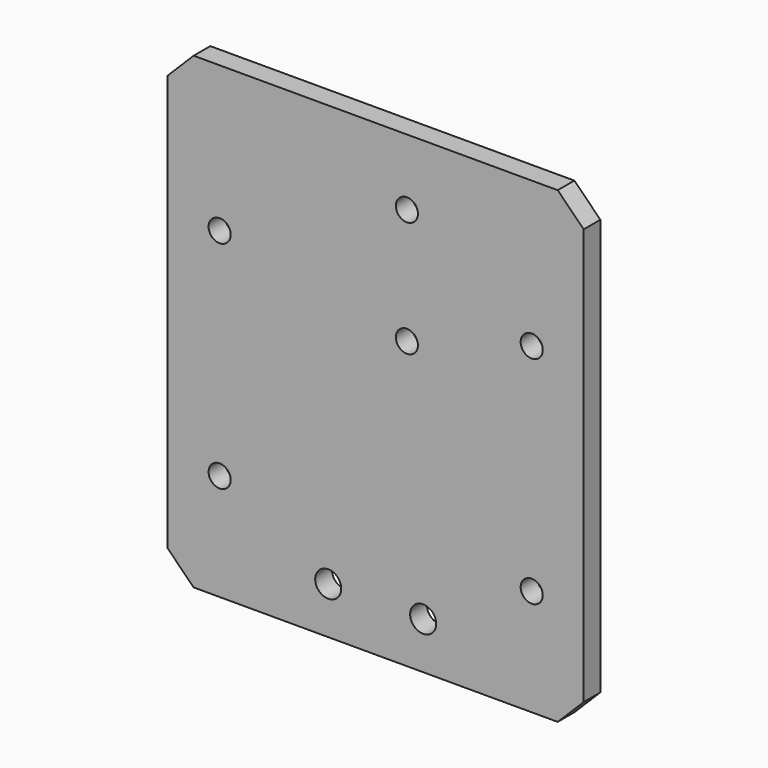
from build123d import *

# Parameters (mm, degrees)
F0_W     = 160
F0_H     = 180
F0_R     = 4.25
F0_R_2   = 5
F1_DEPTH = 8
F2_SIZE  = 10


with BuildPart() as f1:
    # F0 (on Front) → F1 (new body)
    with BuildSketch(Plane.XZ):
        Rectangle(F0_W, F0_H)
        with Locations((-60, -49)):
            Circle(F0_R, mode=Mode.SUBTRACT)
        with Locations((-18.25, -72)):
            Circle(F0_R_2, mode=Mode.SUBTRACT)
        with Locations((18.25, -72)):
            Circle(F0_R_2, mode=Mode.SUBTRACT)
        with Locations((60, -49)):
            Circle(F0_R, mode=Mode.SUBTRACT)
        with Locations((-60, 34)):
            Circle(F0_R, mode=Mode.SUBTRACT)
        with Locations((12, 20)):
            Circle(F0_R, mode=Mode.SUBTRACT)
        with Locations((60, 34)):
            Circle(F0_R, mode=Mode.SUBTRACT)
        with Locations((12, 64.5)):
            Circle(F0_R, mode=Mode.SUBTRACT)
    extrude(amount=F1_DEPTH)

    # F2
    f2_edges = [f1.edges().sort_by_distance(p)[0] for p in [
        (-80, -4, 90),
        (80, -4, 90),
        (80, -4, -90),
        (-80, -4, -90),
    ]]
    chamfer(f2_edges, length=F2_SIZE)


solid = f1.part
